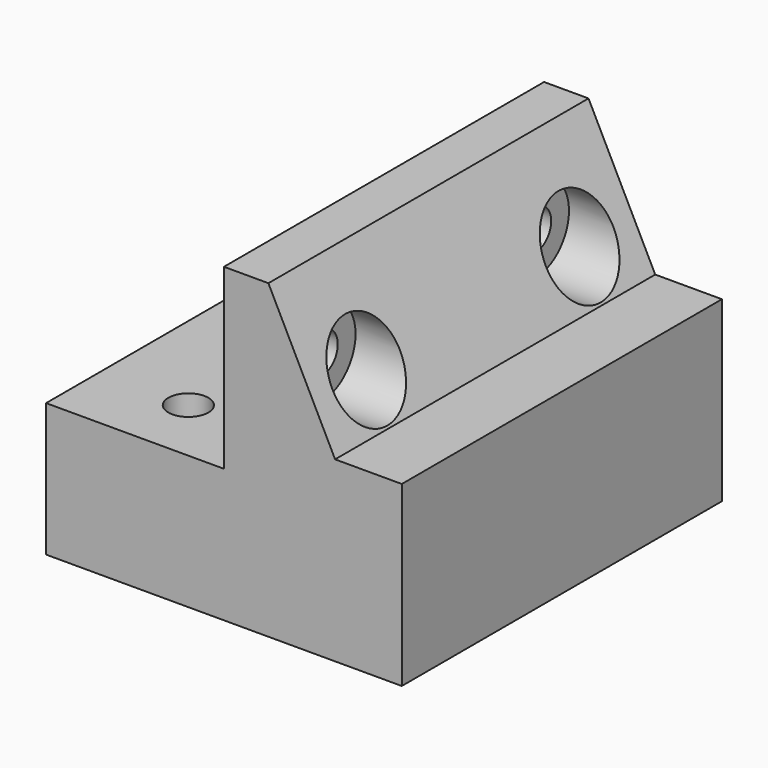
from build123d import *

# Parameters (mm, degrees)
SKETCH_W        = 40
SKETCH_H        = 45
PAD_DEPTH       = 35
POCKET_DEPTH    = 45.001
SKETCH002_R     = 2.25
POCKET001_DEPTH = 15.001
SKETCH003_R     = 2.25
POCKET002_DEPTH = 20.001
SKETCH004_R     = 4.75
POCKET003_DEPTH = 15
POCKET004_DEPTH = 4
SKETCH006_R     = 2.25
POCKET005_DEPTH = 7


with BuildPart() as part:
    # Sketch → Pad (new body)
    with BuildSketch(Plane.XY):
        Rectangle(SKETCH_W, SKETCH_H)
    extrude(amount=PAD_DEPTH)

    # Sketch001 → Pocket (cut, through all)
    with BuildSketch(Plane.XZ.offset(22.5)):
        Polygon((-21, 15), (0, 15), (0, 35), (5, 35), (12.5, 20), (21, 20), (21, 36), (-21, 36), align=None)
    extrude(amount=-POCKET_DEPTH, mode=Mode.SUBTRACT)

    # Sketch002 → Pocket001 (cut, through all)
    with BuildSketch(Plane.XY.offset(15)):
        with Locations((-10, 15)):
            Circle(SKETCH002_R)
        with Locations((-10, -15)):
            Circle(SKETCH002_R)
    extrude(amount=-POCKET001_DEPTH, mode=Mode.SUBTRACT)

    # Sketch003 → Pocket002 (cut, through all)
    with BuildSketch(Plane(origin=(0, 0, 0), x_dir=(0, -1, 0), z_dir=(-1, 0, 0))):
        with Locations((-15, 25)):
            Circle(SKETCH003_R)
        with Locations((15, 25)):
            Circle(SKETCH003_R)
    extrude(amount=-POCKET002_DEPTH, mode=Mode.SUBTRACT)

    # Sketch004 → Pocket003 (cut)
    with BuildSketch(Plane.YZ.offset(20)):
        with Locations((-15, 25)):
            Circle(SKETCH004_R)
        with Locations((15, 25)):
            Circle(SKETCH004_R)
    extrude(amount=-POCKET003_DEPTH, mode=Mode.SUBTRACT)

    # Sketch005 → Pocket004 (cut)
    with BuildSketch(Plane(origin=(-20, 0, 0), x_dir=(0, -1, 0), z_dir=(-1, 0, 0))):
        Polygon((-18.720726, 13.5), (-14.679274, 13.5), (-12.658548, 10), (-14.679274, 6.5), (-18.720726, 6.5), (-20.741452, 10), align=None)
        Polygon((12.658548, 10), (14.679274, 6.5), (18.720726, 6.5), (20.741452, 10), (18.720726, 13.5), (14.679274, 13.5), align=None)
    extrude(amount=-POCKET004_DEPTH, mode=Mode.SUBTRACT)

    # Sketch006 → Pocket005 (cut)
    with BuildSketch(Plane(origin=(-20, 0, 0), x_dir=(0, -1, 0), z_dir=(-1, 0, 0))):
        with Locations((-16.7, 10)):
            Circle(SKETCH006_R)
        with Locations((16.7, 10)):
            Circle(SKETCH006_R)
    extrude(amount=-POCKET005_DEPTH, mode=Mode.SUBTRACT)


solid = part.part
